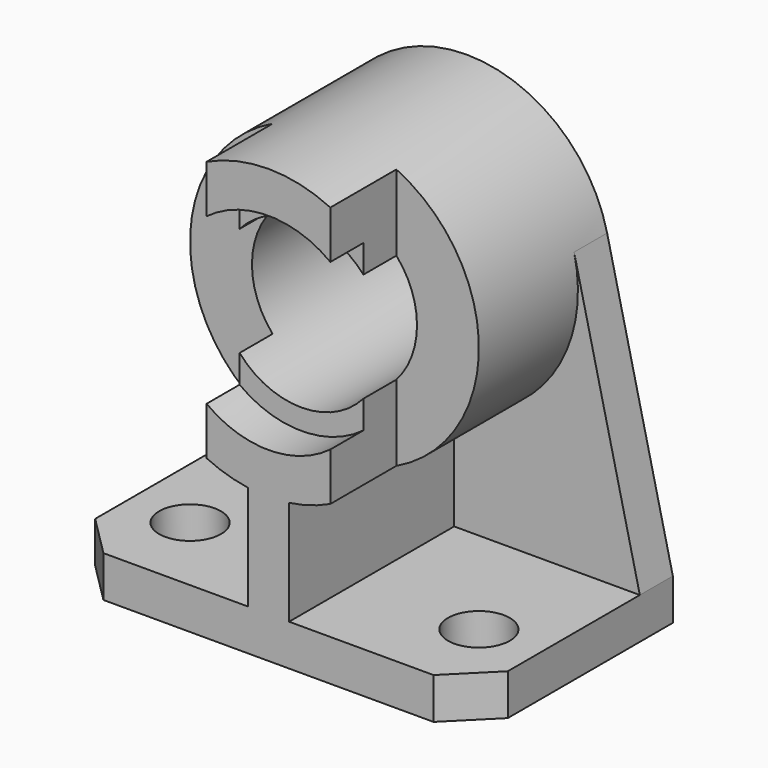
from build123d import *

# Parameters (mm, degrees)
F1_DEPTH = 1524
F3_DEPTH = 254
F4_DEPTH = 1524
F5_DEPTH = 1016
F6_DEPTH = 1270
F7_DEPTH = 1524
F2_R     = 190.5
F8_DEPTH = 254
F9_SIZE  = 254


with BuildPart() as f1:
    # F0 (on Front) → F1 (new body)
    with BuildSketch(Plane.XZ):
        Polygon((1270, -1778), (1270, -1524), (127, -1524), (-127, -1524), (-1270, -1524), (-1270, -1778), align=None)
    extrude(amount=F1_DEPTH)

    # F0 (on Front) → F3 (join)
    with BuildSketch(Plane.XZ):
        with BuildLine():
            ThreePointArc((865.5758720776, 202.729893398), (883.1245524491, 102.0393299739), (889, 0))
            ThreePointArc((889, 0), (751.3421324537, -475.1904881203), (381, -803.2185256828))
            ThreePointArc((381, -803.2185256828), (256.8760689515, -851.0791298111), (127, -879.881810245))
            Line((127, -879.881810245), (127, -1524))
            Line((127, -1524), (1270, -1524))
            Line((1270, -1524), (865.5758720776, 202.729893398))
        make_face()
        with BuildLine():
            Line((-127, -1524), (-127, -879.881810245))
            ThreePointArc((-127, -879.881810245), (-256.8760689515, -851.0791298111), (-381, -803.2185256828))
            ThreePointArc((-381, -803.2185256828), (-800.9187890631, -385.8109554247), (-865.5758720776, 202.729893398))
            Line((-865.5758720776, 202.729893398), (-1270, -1524))
            Line((-1270, -1524), (-127, -1524))
        make_face()
    extrude(amount=F3_DEPTH)

    # F0 (on Front) → F4 (join)
    with BuildSketch(Plane.XZ):
        with BuildLine():
            Line((127, -1524), (127, -879.881810245))
            ThreePointArc((127, -879.881810245), (0, -889), (-127, -879.881810245))
            Line((-127, -879.881810245), (-127, -1524))
            Line((-127, -1524), (127, -1524))
        make_face()
        with BuildLine():
            ThreePointArc((127, -879.881810245), (256.8760689515, -851.0791298111), (381, -803.2185256828))
            Line((381, -803.2185256828), (381, -508))
            ThreePointArc((381, -508), (0, -635), (-381, -508))
            Line((-381, -508), (-381, -803.2185256828))
            ThreePointArc((-381, -803.2185256828), (-256.8760689515, -851.0791298111), (-127, -879.881810245))
            ThreePointArc((-127, -879.881810245), (0, -889), (127, -879.881810245))
        make_face()
    extrude(amount=F4_DEPTH)

    # F0 (on Front) → F5 (join)
    with BuildSketch(Plane.XZ):
        with BuildLine():
            ThreePointArc((381, -803.2185256828), (751.3421324537, -475.1904881203), (889, 0))
            ThreePointArc((889, 0), (883.1245524491, 102.0393299739), (865.5758720776, 202.729893398))
            ThreePointArc((865.5758720776, 202.729893398), (691.8341568521, 558.2889031789), (381, 803.2185256828))
            Line((381, 803.2185256828), (381, 508))
            ThreePointArc((381, 508), (567.9612662849, 283.9806331425), (635, 0))
            ThreePointArc((635, 0), (567.9612662849, -283.9806331425), (381, -508))
            Line((381, -508), (381, -803.2185256828))
        make_face()
        with BuildLine():
            Line((381, -336.0104165052), (381, -508))
            ThreePointArc((381, -508), (567.9612662849, -283.9806331425), (635, 0))
            ThreePointArc((635, 0), (567.9612662849, 283.9806331425), (381, 508))
            Line((381, 508), (381, 336.0104165052))
            ThreePointArc((381, 336.0104165052), (475.1904881203, 179.6051224214), (508, 0))
            ThreePointArc((508, 0), (475.1904881203, -179.6051224214), (381, -336.0104165052))
        make_face()
        with BuildLine():
            ThreePointArc((-381, 508), (-635, 0), (-381, -508))
            Line((-381, -508), (-381, -336.0104165052))
            ThreePointArc((-381, -336.0104165052), (-508, 0), (-381, 336.0104165052))
            Line((-381, 336.0104165052), (-381, 508))
        make_face()
        with BuildLine():
            Line((-381, 508), (-381, 803.2185256828))
            ThreePointArc((-381, 803.2185256828), (-691.8341568521, 558.2889031789), (-865.5758720776, 202.729893398))
            ThreePointArc((-865.5758720776, 202.729893398), (-800.9187890631, -385.8109554247), (-381, -803.2185256828))
            Line((-381, -803.2185256828), (-381, -508))
            ThreePointArc((-381, -508), (-635, 0), (-381, 508))
        make_face()
    extrude(amount=F5_DEPTH)

    # F0 (on Front) → F6 (join)
    with BuildSketch(Plane.XZ):
        with BuildLine():
            ThreePointArc((-381, -508), (0, -635), (381, -508))
            Line((381, -508), (381, -336.0104165052))
            ThreePointArc((381, -336.0104165052), (0, -508), (-381, -336.0104165052))
            Line((-381, -336.0104165052), (-381, -508))
        make_face()
        with BuildLine():
            Line((381, 336.0104165052), (381, 508))
            ThreePointArc((381, 508), (0, 635), (-381, 508))
            Line((-381, 508), (-381, 336.0104165052))
            ThreePointArc((-381, 336.0104165052), (0, 508), (381, 336.0104165052))
        make_face()
    extrude(amount=F6_DEPTH)

    # F0 (on Front) → F7 (join)
    with BuildSketch(Plane.XZ):
        with BuildLine():
            Line((381, 508), (381, 803.2185256828))
            ThreePointArc((381, 803.2185256828), (0, 889), (-381, 803.2185256828))
            Line((-381, 803.2185256828), (-381, 508))
            ThreePointArc((-381, 508), (0, 635), (381, 508))
        make_face()
    extrude(amount=F7_DEPTH)

    # F2 (on face) → F8 (cut, through all)
    with BuildSketch(Plane.XY.offset(-1524)):
        with Locations((889, -1016)):
            Circle(F2_R)
        with Locations((-889, -1016)):
            Circle(F2_R)
    extrude(amount=-F8_DEPTH, mode=Mode.SUBTRACT)

    # F9
    f9_edges = [f1.edges().sort_by_distance(p)[0] for p in [
        (-1270, -1524, -1651),
        (1270, -1524, -1651),
    ]]
    chamfer(f9_edges, length=F9_SIZE)


solid = f1.part
